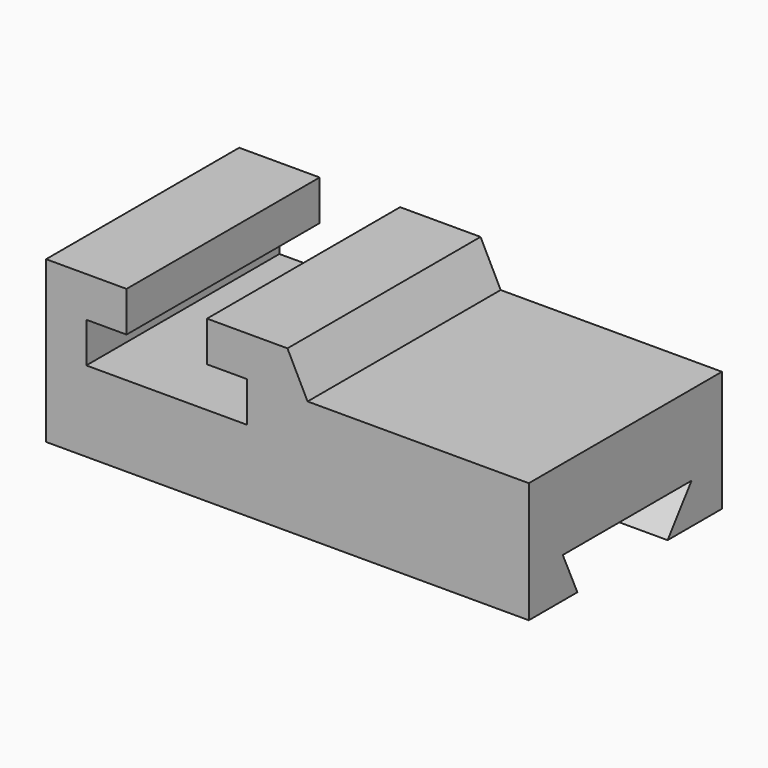
from build123d import *

# Parameters (mm, degrees)
F1_DEPTH = 76.2
F3_DEPTH = 76.2


with BuildPart() as f1:
    # F0 (on Front) → F1 (new body)
    with BuildSketch(Plane.XZ):
        Polygon((0, 50.8), (0, 0), (152.4, 0), (152.4, 38.1), (82.55, 38.1), (76.2, 50.8), (50.8, 50.8), (50.8, 38.1), (63.5, 38.1), (63.5, 25.4), (12.7, 25.4), (12.7, 38.1), (25.4, 38.1), (25.4, 50.8), align=None)
    extrude(amount=-F1_DEPTH)

    # F2 (on face) → F3 (cut)
    with BuildSketch(Plane.YZ.offset(152.4)):
        Polygon((13.39724, 12.7), (19.161692, 0), (54.76566, 0), (64.19724, 12.7), align=None)
    extrude(amount=-F3_DEPTH, mode=Mode.SUBTRACT)


solid = f1.part
